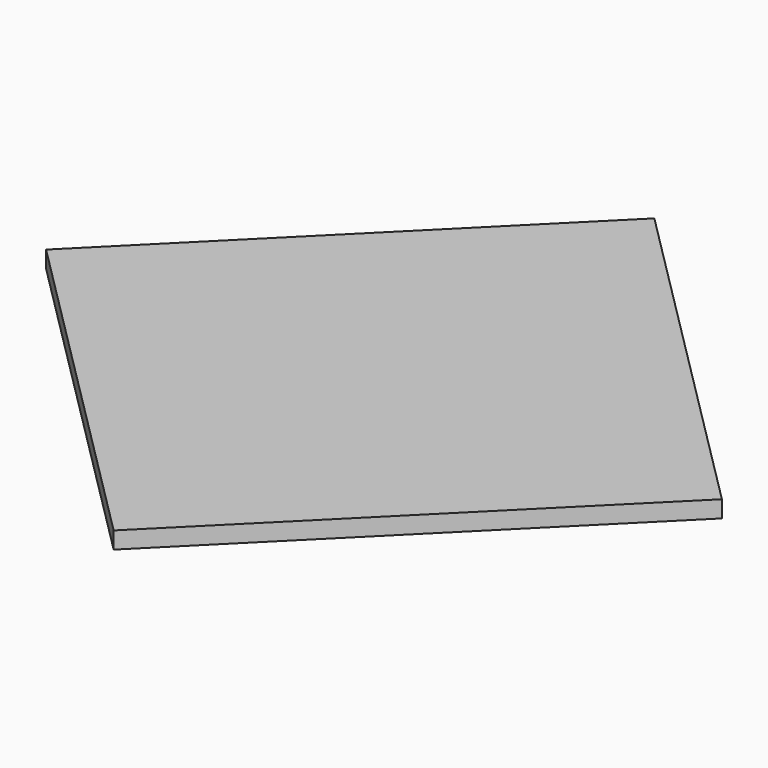
from build123d import *

# Parameters (mm, degrees)
F10_DEPTH = 25


with BuildPart() as f10:
    # F2 (on offset) → F10 (new body)
    with BuildSketch(Plane.XY.offset(500)):
        Polygon((-500, 0), (-250, -250), (0, 0), (250, 250), (0, 500), (-250, 250), align=None)
        Polygon((0, 0), (-250, -250), (0, -500), (250, -250), (500, 0), (250, 250), align=None)
    extrude(amount=F10_DEPTH)


solid = f10.part
